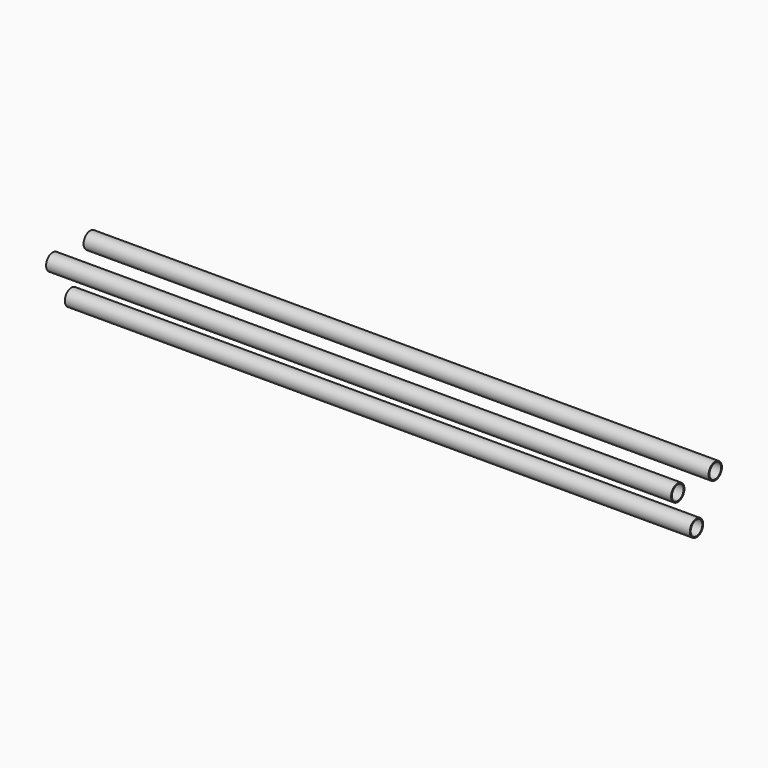
from build123d import *

# Parameters (mm, degrees)
F0_R     = 8
F0_R_2   = 7
F1_DEPTH = 600


with BuildPart() as f1:
    # F0 (on Right) → F1 (new body)
    with BuildSketch(Plane.YZ):
        Circle(F0_R)
        Circle(F0_R_2, mode=Mode.SUBTRACT)
        with Locations((45, 0)):
            Circle(F0_R)
        with Locations((45, 0)):
            Circle(F0_R_2, mode=Mode.SUBTRACT)
        with Locations((22.5, -38.971143)):
            Circle(F0_R)
        with Locations((22.5, -38.971143)):
            Circle(F0_R_2, mode=Mode.SUBTRACT)
    extrude(amount=F1_DEPTH)


solid = f1.part
